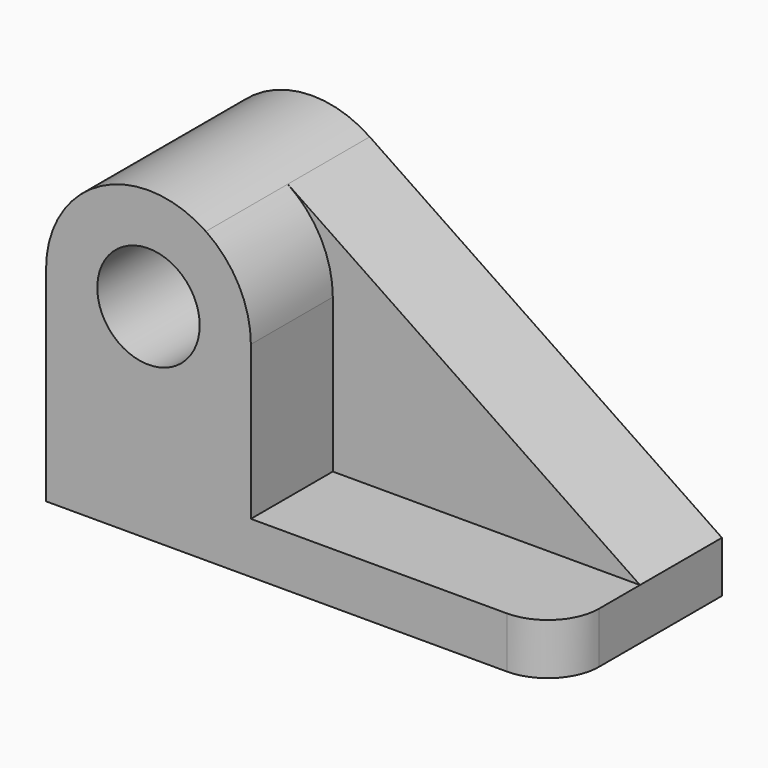
from build123d import *

# Parameters (mm, degrees)
F0_R     = 12.7
F1_DEPTH = 25.4
F2_R     = 12.7
F3_DEPTH = 25.4
F4_R     = 12.7


with BuildPart() as f1:
    # F0 (on Front) → F1 (new body)
    with BuildSketch(Plane.XZ):
        with BuildLine():
            Line((63.234051, 12.7), (-24.128076, 71.834328))
            ThreePointArc((-24.128076, 71.834328), (-50.272208, 73.236599), (-63.765949, 50.8))
            Line((-63.765949, 50.8), (-63.765949, 0))
            Line((-63.765949, 0), (63.234051, 0))
            Line((63.234051, 0), (63.234051, 12.7))
        make_face()
        with Locations((-38.365949, 50.8)):
            Circle(F0_R, mode=Mode.SUBTRACT)
    extrude(amount=F1_DEPTH)

    # F2 (on face) → F3 (join)
    with BuildSketch(Plane.XZ.offset(25.4)):
        with BuildLine():
            Line((-12.965949, 12.7), (-12.965949, 50.8))
            ThreePointArc((-12.965949, 50.8), (-15.92935, 62.706259), (-24.128076, 71.834328))
            ThreePointArc((-24.128076, 71.834328), (-50.272208, 73.236599), (-63.765949, 50.8))
            Line((-63.765949, 50.8), (-63.765949, 12.7))
            Line((-63.765949, 12.7), (-63.765949, 0))
            Line((-63.765949, 0), (63.234051, 0))
            Line((63.234051, 0), (63.234051, 12.7))
            Line((63.234051, 12.7), (-12.965949, 12.7))
        make_face()
        with Locations((-38.365949, 50.8)):
            Circle(F2_R, mode=Mode.SUBTRACT)
    extrude(amount=F3_DEPTH)

    # F4
    f4_edges = [f1.edges().sort_by_distance(p)[0] for p in [
        (63.234051, -50.8, 6.35),
    ]]
    fillet(f4_edges, radius=F4_R)


solid = f1.part
